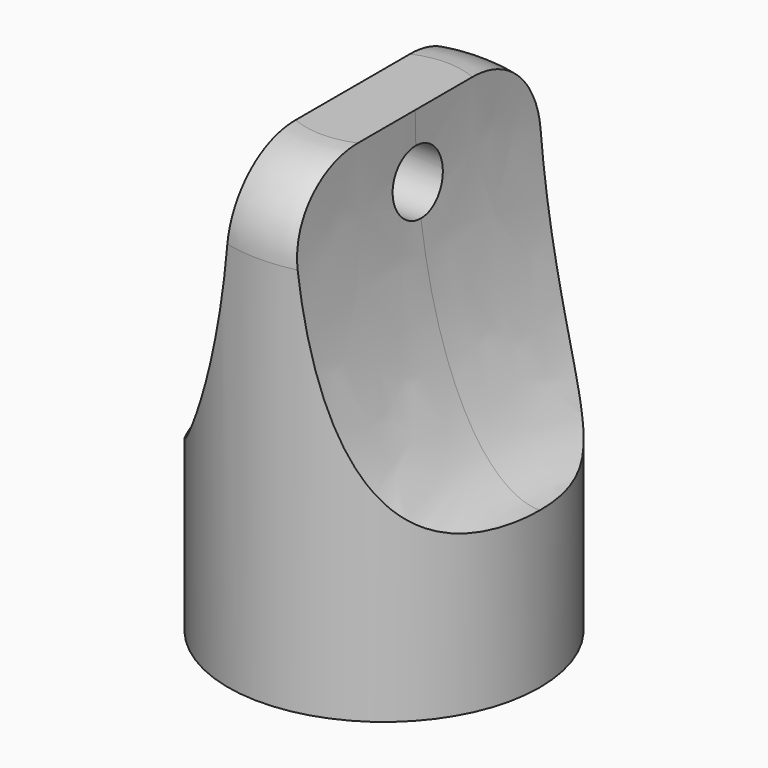
from build123d import *

# Parameters (mm, degrees)
F2_R     = 10
F3_DEPTH = 10
F4_DEPTH = 20
F6_DEPTH = 12.5
F7_R     = 2
F8_DEPTH = 12.5
F9_R     = 5


with BuildPart() as f3:
    # F2 (on Top) → F3 (new body)
    with BuildSketch(Plane.XY):
        Circle(F2_R)
        with BuildLine():
            ThreePointArc((7, -6), (0, -9.2195444573), (-7, -6))
            ThreePointArc((-7, -6), (-7.9843597113, -4.6097722286), (-8.6961524227, -3.0621778265))
            ThreePointArc((-8.6961524227, -3.0621778265), (-7.9843597113, 4.6097722286), (-1.6961524227, 9.0621778265))
            ThreePointArc((-1.6961524227, 9.0621778265), (0, 9.2195444573), (1.6961524227, 9.0621778265))
            ThreePointArc((1.6961524227, 9.0621778265), (7.0935799378, 5.8890681492), (9.2195444573, 0))
            ThreePointArc((9.2195444573, 0), (9.0877545045, -1.553292653), (8.6961524227, -3.0621778265))
            ThreePointArc((8.6961524227, -3.0621778265), (7.9843597113, -4.6097722286), (7, -6))
        make_face(mode=Mode.SUBTRACT)
        with BuildLine():
            Line((-8.6961524227, -3.0621778265), (-5.1961524227, 3))
            Line((-5.1961524227, 3), (-1.6961524227, 9.0621778265))
            ThreePointArc((-1.6961524227, 9.0621778265), (-7.9843597113, 4.6097722286), (-8.6961524227, -3.0621778265))
        make_face()
        with BuildLine():
            Line((7, -6), (0, -6))
            Line((0, -6), (-7, -6))
            ThreePointArc((-7, -6), (0, -9.2195444573), (7, -6))
        make_face()
        with BuildLine():
            Line((1.6961524227, 9.0621778265), (5.1961524227, 3))
            Line((5.1961524227, 3), (8.6961524227, -3.0621778265))
            ThreePointArc((8.6961524227, -3.0621778265), (9.0877545045, -1.553292653), (9.2195444573, 0))
            ThreePointArc((9.2195444573, 0), (7.0935799378, 5.8890681492), (1.6961524227, 9.0621778265))
        make_face()
    extrude(amount=-F3_DEPTH)

    # F2 (on Top) → F4 (join)
    with BuildSketch(Plane.XY):
        Circle(F2_R)
        with BuildLine():
            ThreePointArc((7, -6), (0, -9.2195444573), (-7, -6))
            ThreePointArc((-7, -6), (-7.9843597113, -4.6097722286), (-8.6961524227, -3.0621778265))
            ThreePointArc((-8.6961524227, -3.0621778265), (-7.9843597113, 4.6097722286), (-1.6961524227, 9.0621778265))
            ThreePointArc((-1.6961524227, 9.0621778265), (0, 9.2195444573), (1.6961524227, 9.0621778265))
            ThreePointArc((1.6961524227, 9.0621778265), (7.0935799378, 5.8890681492), (9.2195444573, 0))
            ThreePointArc((9.2195444573, 0), (9.0877545045, -1.553292653), (8.6961524227, -3.0621778265))
            ThreePointArc((8.6961524227, -3.0621778265), (7.9843597113, -4.6097722286), (7, -6))
        make_face(mode=Mode.SUBTRACT)
        with BuildLine():
            Line((0, -6), (0, 0))
            Line((0, 0), (-5.1961524227, 3))
            Line((-5.1961524227, 3), (-8.6961524227, -3.0621778265))
            ThreePointArc((-8.6961524227, -3.0621778265), (-7.9843597113, -4.6097722286), (-7, -6))
            Line((-7, -6), (0, -6))
        make_face()
        with BuildLine():
            Line((-8.6961524227, -3.0621778265), (-5.1961524227, 3))
            Line((-5.1961524227, 3), (-1.6961524227, 9.0621778265))
            ThreePointArc((-1.6961524227, 9.0621778265), (-7.9843597113, 4.6097722286), (-8.6961524227, -3.0621778265))
        make_face()
        with BuildLine():
            Line((-5.1961524227, 3), (0, 0))
            Line((0, 0), (5.1961524227, 3))
            Line((5.1961524227, 3), (1.6961524227, 9.0621778265))
            ThreePointArc((1.6961524227, 9.0621778265), (0, 9.2195444573), (-1.6961524227, 9.0621778265))
            Line((-1.6961524227, 9.0621778265), (-5.1961524227, 3))
        make_face()
        with BuildLine():
            Line((5.1961524227, 3), (0, 0))
            Line((0, 0), (0, -6))
            Line((0, -6), (7, -6))
            ThreePointArc((7, -6), (7.9843597113, -4.6097722286), (8.6961524227, -3.0621778265))
            Line((8.6961524227, -3.0621778265), (5.1961524227, 3))
        make_face()
        with BuildLine():
            Line((1.6961524227, 9.0621778265), (5.1961524227, 3))
            Line((5.1961524227, 3), (8.6961524227, -3.0621778265))
            ThreePointArc((8.6961524227, -3.0621778265), (9.0877545045, -1.553292653), (9.2195444573, 0))
            ThreePointArc((9.2195444573, 0), (7.0935799378, 5.8890681492), (1.6961524227, 9.0621778265))
        make_face()
        with BuildLine():
            Line((7, -6), (0, -6))
            Line((0, -6), (-7, -6))
            ThreePointArc((-7, -6), (0, -9.2195444573), (7, -6))
        make_face()
    extrude(amount=F4_DEPTH)

    # F5 (on Front) → F6 (cut, symmetric)
    with BuildSketch(Plane.XZ):
        with BuildLine():
            Line((-10, 0), (-10, 20))
            Line((-10, 20), (-2, 20))
            add(Edge.make_bspline(
                [(-2, 20), (-2, 68.2842712475), (-15.6568542495, 34.1421356237), (-29.313708499, 0), (-10, 0)],
                knots=[4.7123889804, 4.7123889804, 4.7123889804, 7.0685834706, 7.0685834706, 9.4247779608, 9.4247779608, 9.4247779608], degree=2, weights=[1, 0.3826834324, 1, 0.3826834324, 1]))
        make_face()
        with BuildLine():
            Line((-2, 20), (-10, 20))
            Line((-10, 20), (-10, 0))
            add(Edge.make_bspline(
                [(-10, 0), (-2, 0), (-2, 20)],
                knots=[3.1415926536, 3.1415926536, 3.1415926536, 4.7123889804, 4.7123889804, 4.7123889804], degree=2, weights=[1, 0.7071067812, 1]))
        make_face()
        with BuildLine():
            add(Edge.make_bspline(
                [(2, 20), (2, -14.6410161514), (14, 2.6794919243), (26, 20), (14, 37.3205080757), (2, 54.6410161514), (2, 20)],
                knots=[4.7123889804, 4.7123889804, 4.7123889804, 6.8067840828, 6.8067840828, 8.9011791852, 8.9011791852, 10.9955742876, 10.9955742876, 10.9955742876], degree=2, weights=[1, 0.5, 1, 0.5, 1, 0.5, 1]))
        make_face()
    extrude(amount=F6_DEPTH, both=True, mode=Mode.SUBTRACT)

    # F7 (on Right) → F8 (cut, symmetric)
    with BuildSketch(Plane.YZ):
        with Locations((0, 16)):
            Circle(F7_R)
    extrude(amount=F8_DEPTH, both=True, mode=Mode.SUBTRACT)

    # F9
    f9_edges = [f3.edges().sort_by_distance(p)[0] for p in [
        (0, 10, 20),
        (0, -10, 20),
    ]]
    fillet(f9_edges, radius=F9_R)


solid = f3.part
